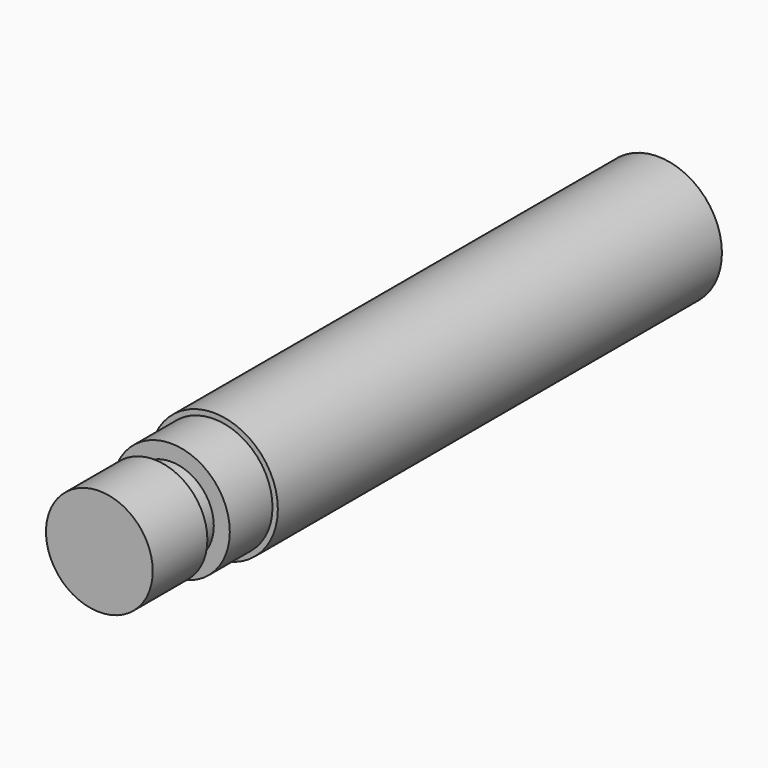
from build123d import *

# Parameters (mm, degrees)
F0_R     = 6
F1_DEPTH = 52
F2_R     = 5.5
F3_DEPTH = 5
F4_R     = 4
F5_DEPTH = 2
F6_R     = 5
F7_DEPTH = 6.4


with BuildPart() as f1:
    # F0 (on Front) → F1 (new body)
    with BuildSketch(Plane.XZ):
        Circle(F0_R)
    extrude(amount=-F1_DEPTH)

    # F2 (on face) → F3 (join)
    with BuildSketch(Plane.XZ):
        Circle(F2_R)
    extrude(amount=F3_DEPTH)

    # F4 (on face) → F5 (join)
    with BuildSketch(Plane.XZ.offset(5)):
        Circle(F4_R)
    extrude(amount=F5_DEPTH)

    # F6 (on face) → F7 (join)
    with BuildSketch(Plane.XZ.offset(7)):
        Circle(F6_R)
    extrude(amount=F7_DEPTH)


solid = f1.part
